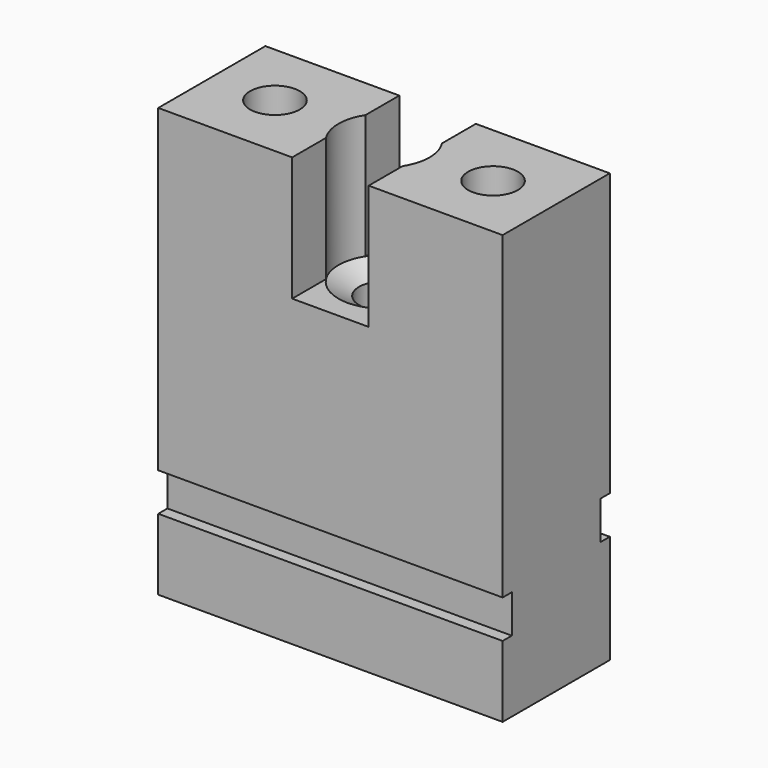
from build123d import *

# Parameters (mm, degrees)
F0_W      = 9
F0_H      = 3.5
F1_DEPTH  = 11.2
F3_D      = 2.38
F3_DEPTH  = 3.25
F3_TIP    = 0.7150241366
F5_D      = 1.3
F6_W      = 9
F6_H      = 1
F7_DEPTH  = 0.3
F9_DEPTH  = 3.25
F10_W     = 9
F10_H     = 1
F11_DEPTH = 0.3


with BuildPart() as f1:
    # F0 (on Top) → F1 (new body)
    with BuildSketch(Plane.XY):
        Rectangle(F0_W, F0_H)
    extrude(amount=F1_DEPTH)

    # F3
    with Locations(Plane.XY.offset(11.2)):
        with Locations((0, 0)):
            Hole(F3_D / 2, depth=F3_DEPTH)
            with Locations((0, 0, -(F3_DEPTH + F3_TIP / 2))):  # 118° drill point
                Cone(0, F3_D / 2, F3_TIP, mode=Mode.SUBTRACT)

    # F5 (through all)
    with Locations(Plane.XY.offset(11.2)):
        with Locations((0, 0), (-2.85, 0), (2.85, 0)):
            Hole(F5_D / 2)

    # F6 (on face) → F7 (cut)
    with BuildSketch(Plane.XZ.offset(1.75)):
        with Locations((0, 2.3625027388)):
            Rectangle(F6_W, F6_H)
    extrude(amount=-F7_DEPTH, mode=Mode.SUBTRACT)

    # F8 (on face) → F9 (cut)
    with BuildSketch(Plane.XY.offset(11.2)):
        with BuildLine():
            Line((-1, -1.75), (1, -1.75))
            Line((1, -1.75), (1, -0.6450581369))
            ThreePointArc((1, -0.6450581369), (0, -1.19), (-1, -0.6450581369))
            Line((-1, -0.6450581369), (-1, -1.75))
        make_face()
        with BuildLine():
            ThreePointArc((-1, 0.6450581369), (0, 1.19), (1, 0.6450581369))
            Line((1, 0.6450581369), (1, 1.75))
            Line((1, 1.75), (-1, 1.75))
            Line((-1, 1.75), (-1, 0.6450581369))
        make_face()
    extrude(amount=-F9_DEPTH, mode=Mode.SUBTRACT)

    # F10 (on face) → F11 (cut)
    with BuildSketch(Plane(origin=(0, 1.75, 0), x_dir=(-1, 0, 0), z_dir=(0, 1, 0))):
        with Locations((0, 3.3379399683)):
            Rectangle(F10_W, F10_H)
    extrude(amount=-F11_DEPTH, mode=Mode.SUBTRACT)


solid = f1.part
